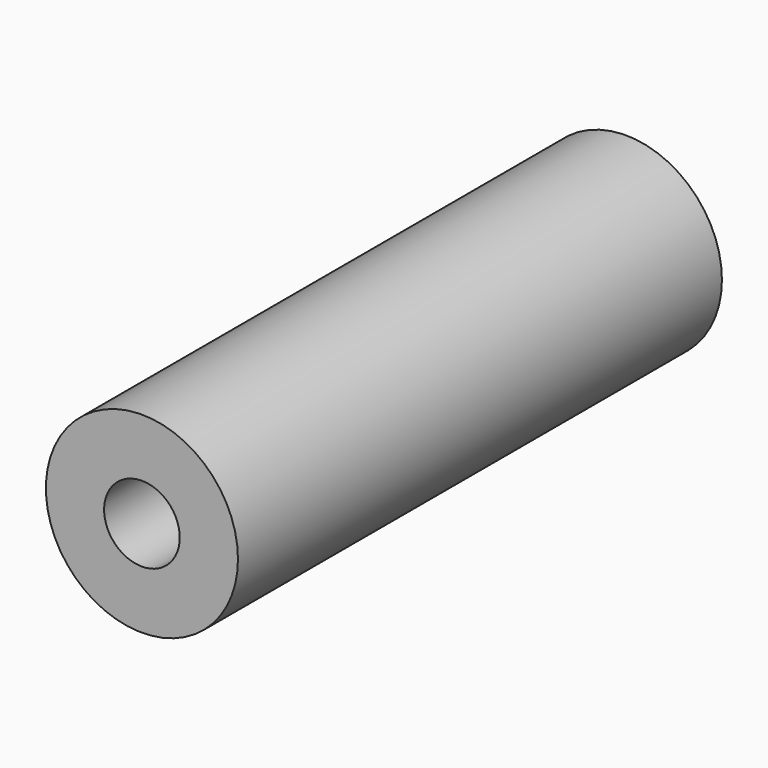
from build123d import *

# Parameters (mm, degrees)
SKETCH_R   = 6.35
SKETCH_R_2 = 2.5
PAD_DEPTH  = 40


with BuildPart() as part:
    # Sketch → Pad (new body)
    with BuildSketch(Plane.XZ):
        Circle(SKETCH_R)
        Circle(SKETCH_R_2, mode=Mode.SUBTRACT)
    extrude(amount=PAD_DEPTH)


solid = part.part
